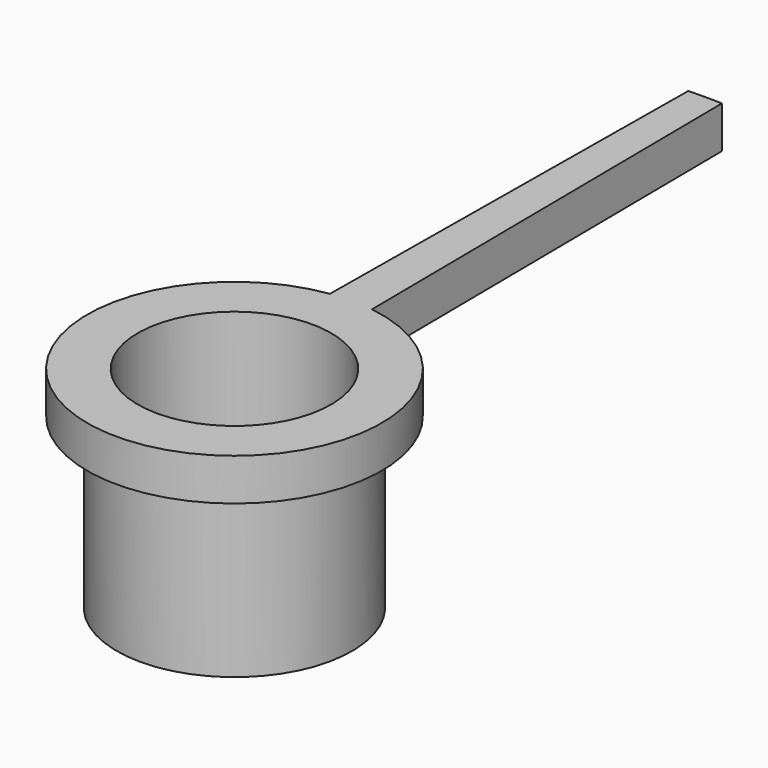
from build123d import *

# Parameters (mm, degrees)
POCKET_DEPTH = 5.001


with BuildPart() as part:
    # Sketch → Revolution (revolve)
    with BuildSketch(Plane.YZ):
        Polygon((-14, 0), (-14, -1), (-2.8, -1), (-2.8, -5), (-2.3, -5), (-2.3, 0), align=None)
    revolve(axis=Axis((0, 0, 0), (0, 0, 1)))

    # Sketch001 (on Face6 of Revolution) → Pocket (cut, through all)
    with BuildSketch(Plane(origin=(0, 0, 0), x_dir=(0, -1, 0), z_dir=(0, 0, 1))):
        with BuildLine():
            Line((-13.9942845476, 0.4), (-3.4641016151, 0.5))
            ThreePointArc((-3.4641016151, -0.5), (3.5, 0), (-3.4641016151, 0.5))
            Line((-3.4641016151, -0.5), (-13.9942845476, -0.4))
            ThreePointArc((-13.9942845476, -0.4), (14, 0), (-13.9942845476, 0.4))
        make_face()
    extrude(amount=-POCKET_DEPTH, mode=Mode.SUBTRACT)


solid = part.part
